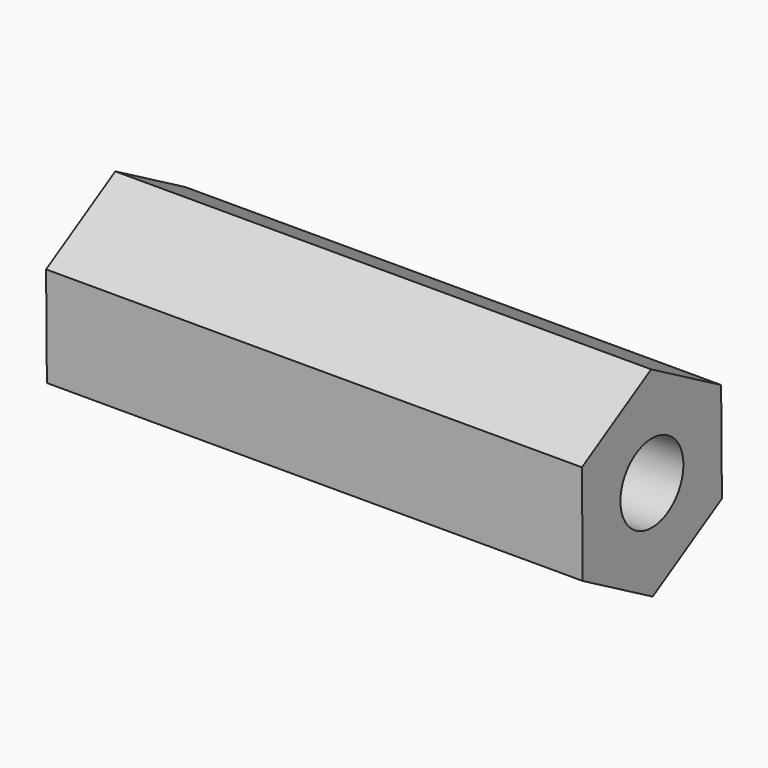
from build123d import *

# Parameters (mm, degrees)
F1_DEPTH = 32
F3_D     = 4.7


with BuildPart() as f1:
    # F0 (on Right) → F1 (new body)
    with BuildSketch(Plane.YZ):
        Polygon((0.059589, -5.999704), (5.225691, -2.948247), (5.166102, 3.051458), (-0.059589, 5.999704), (-5.225691, 2.948247), (-5.166102, -3.051458), align=None)
    extrude(amount=F1_DEPTH)

    # F3 (through all)
    with Locations(Plane.YZ.offset(32)):
        with Locations((0, 0)):
            Hole(F3_D / 2)


solid = f1.part
